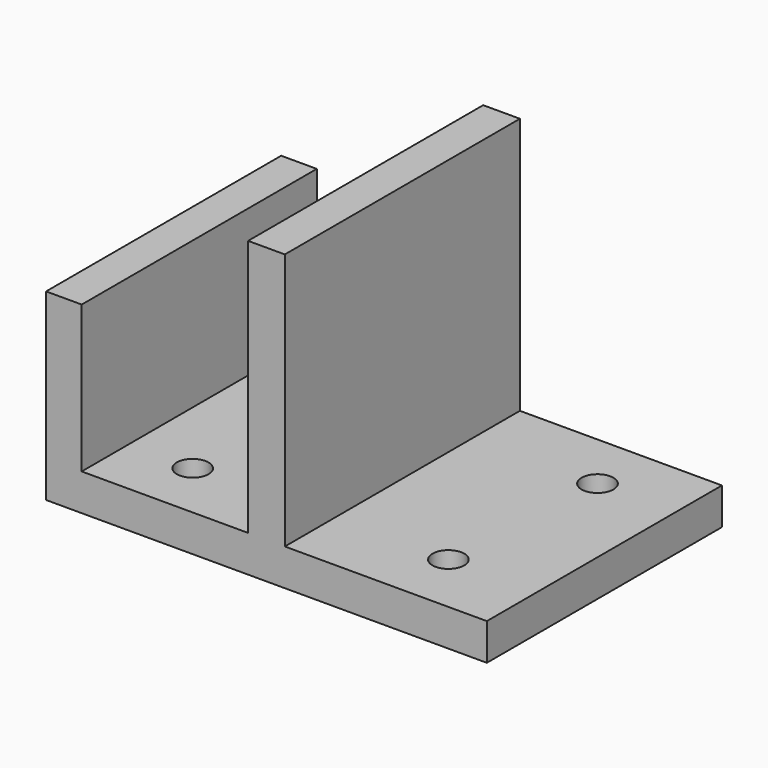
from build123d import *

# Parameters (mm, degrees)
F0_W     = 76.2
F0_H     = 50.8
F1_DEPTH = 6.35
F2_W     = 6.35
F2_H     = 50.8
F3_DEPTH = 50.8
F5_D     = 5.5
F6_W     = 6.1577814579
F6_H     = 50.8
F7_DEPTH = 25.4


with BuildPart() as f1:
    # F0 (on Top) → F1 (new body)
    with BuildSketch(Plane.XY):
        Rectangle(F0_W, F0_H)
    extrude(amount=F1_DEPTH)

    # F2 (on Top) → F3 (join)
    with BuildSketch(Plane.XY):
        Rectangle(F2_W, F2_H)
    extrude(amount=F3_DEPTH)

    # F5 (through all)
    with Locations(Plane.XY.offset(6.35)):
        with Locations((-21.0682712495, 12.8510268405), (-20.8211354911, -15.3223779052), (22.798217833, -14.5809724927), (24.6517322958, 15.3223788366)):
            Hole(F5_D / 2)

    # F6 (on face) → F7 (join)
    with BuildSketch(Plane.XY.offset(6.35)):
        with Locations((-35.021109271, 0)):
            Rectangle(F6_W, F6_H)
    extrude(amount=F7_DEPTH)


solid = f1.part
